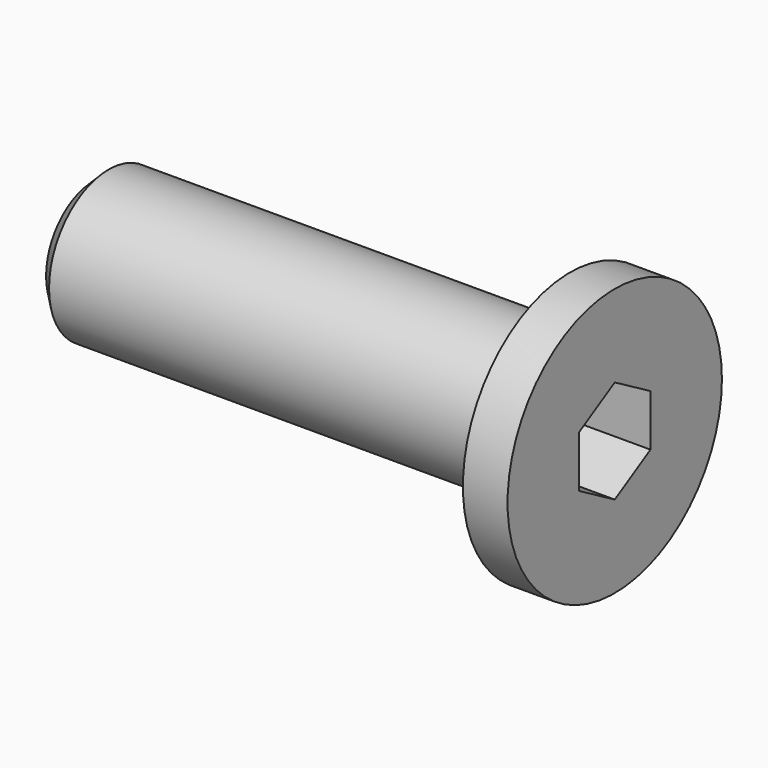
from build123d import *

# Parameters (mm, degrees)
F0_R     = 4.5
F1_DEPTH = 1.5
F2_R     = 2.5
F3_DEPTH = 16
F4_SIZE  = 0.5
F6_DEPTH = 3


with BuildPart() as f1:
    # F0 (on Right) → F1 (new body)
    with BuildSketch(Plane.YZ):
        Circle(F0_R)
    extrude(amount=-F1_DEPTH)

    # F2 (on face) → F3 (join)
    with BuildSketch(Plane(origin=(-1.5, 0, 0), x_dir=(0, -1, 0), z_dir=(-1, 0, 0))):
        Circle(F2_R)
    extrude(amount=F3_DEPTH)

    # F4
    f4_edges = [f1.edges().sort_by_distance(p)[0] for p in [
        (-17.5, 2.5, 0),
    ]]
    chamfer(f4_edges, length=F4_SIZE)

    # F5 (on face) → F6 (cut)
    with BuildSketch(Plane.YZ):
        Polygon((0, -1.732051), (1.5, -0.866025), (1.5, 0.866025), (0, 1.732051), (-1.5, 0.866025), (-1.5, -0.866025), align=None)
    extrude(amount=-F6_DEPTH, mode=Mode.SUBTRACT)


solid = f1.part
